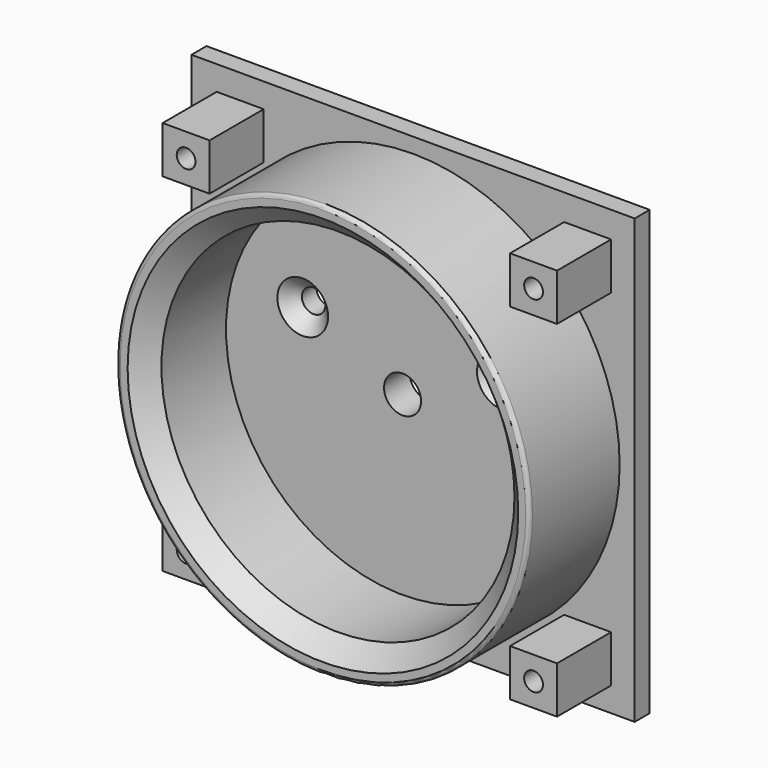
from build123d import *

# Parameters (mm, degrees)
F0_R            = 24.257
F1_DEPTH        = 4.318
F2_R            = 27.94
F2_R_2          = 23.876
F3_DEPTH        = 17.78
F0_W            = 59.944
F0_H            = 59.944
F0_W_2          = 6.35
F0_H_2          = 6.35
F5_DEPTH        = 2.54
F6_DEPTH        = 11.684
F7_D            = 2.54
F8_SIZE         = 2.54
F9_R            = 0.508
F11_D           = 3.175
F11_CSINK_D     = 6.858
F11_CSINK_ANGLE = 90
F12_D           = 5


with BuildPart() as f1:
    # F0 (on Front) → F1 (new body)
    with BuildSketch(Plane.XZ):
        Circle(F0_R)
    extrude(amount=F1_DEPTH)

    # F2 (on Front) → F3 (join)
    with BuildSketch(Plane.XZ):
        Circle(F2_R)
        Circle(F2_R_2, mode=Mode.SUBTRACT)
    extrude(amount=F3_DEPTH)

    # F0 (on Front) → F5 (join)
    with BuildSketch(Plane.XZ):
        Rectangle(F0_W, F0_H)
        with Locations((-23.3818002729, -23.495)):
            Rectangle(F0_W_2, F0_H_2, mode=Mode.SUBTRACT)
        Circle(F0_R, mode=Mode.SUBTRACT)
        with Locations((23.6081997271, -23.495)):
            Rectangle(F0_W_2, F0_H_2, mode=Mode.SUBTRACT)
        with Locations((-23.3818002729, 23.495)):
            Rectangle(F0_W_2, F0_H_2, mode=Mode.SUBTRACT)
        with Locations((23.6081997271, 23.2674991059)):
            Rectangle(F0_W_2, F0_H_2, mode=Mode.SUBTRACT)
    extrude(amount=F5_DEPTH)

    # F0 (on Front) → F6 (join)
    with BuildSketch(Plane.XZ):
        with Locations((-23.3818002729, -23.495)):
            Rectangle(F0_W_2, F0_H_2)
        with Locations((-23.3818002729, 23.495)):
            Rectangle(F0_W_2, F0_H_2)
        with Locations((23.6081997271, 23.2674991059)):
            Rectangle(F0_W_2, F0_H_2)
        with Locations((23.6081997271, -23.495)):
            Rectangle(F0_W_2, F0_H_2)
    extrude(amount=F6_DEPTH)

    # F7 (through all)
    with Locations(Plane(origin=(0, 0, 0), x_dir=(1, 0, 0), z_dir=(0, 1, 0))):
        with Locations((-23.3818002729, -23.495), (23.6081997271, -23.2674991059), (-23.3818002729, 23.495), (23.6081997271, 23.495)):
            Hole(F7_D / 2)

    # F8
    f8_edges = [f1.edges().sort_by_distance(p)[0] for p in [
        (-23.876, -17.78, 0),
    ]]
    chamfer(f8_edges, length=F8_SIZE)

    # F9
    f9_edges = [f1.edges().sort_by_distance(p)[0] for p in [
        (-27.94, -17.78, 0),
    ]]
    fillet(f9_edges, radius=F9_R)

    # F11 (through all)
    with Locations(Plane.XZ.offset(4.318)):
        with Locations((-13.5, 6), (13.5, 6)):
            CounterSinkHole(F11_D / 2, F11_CSINK_D / 2, counter_sink_angle=F11_CSINK_ANGLE)

    # F12 (through all)
    with Locations(Plane(origin=(0, 0, 0), x_dir=(1, 0, 0), z_dir=(0, 1, 0))):
        with Locations((0, 0)):
            Hole(F12_D / 2)


solid = f1.part
